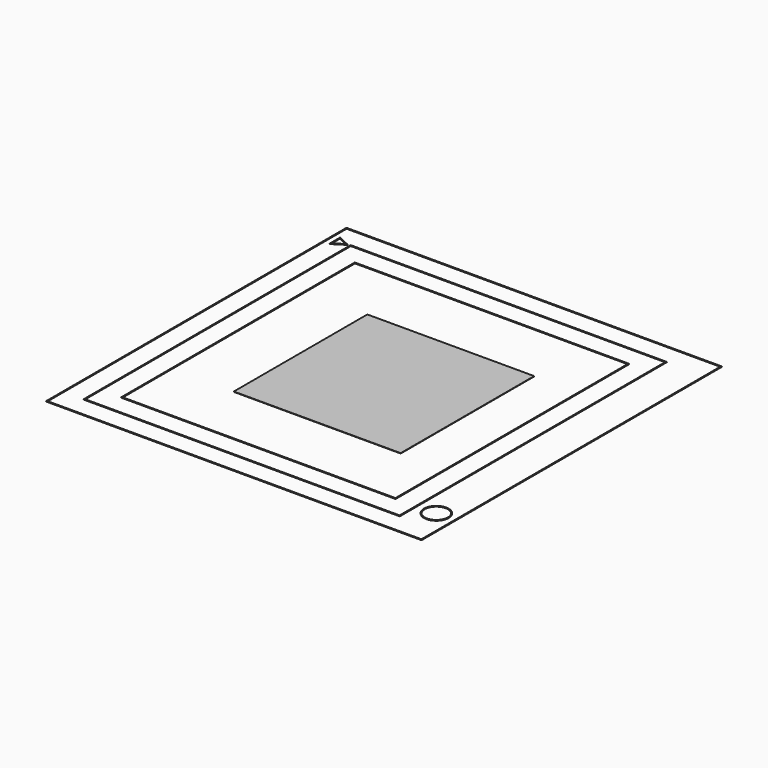
from build123d import *

# Parameters (mm, degrees)
F1_W     = 198
F1_H     = 198
F1_W_2   = 197.2
F1_H_2   = 197.2
F2_DEPTH = 0.2
F1_W_3   = 166.7133469
F1_H_3   = 176
F1_W_4   = 165.9133469
F1_H_4   = 175.2
F1_W_5   = 144.7133469
F1_H_5   = 154
F1_W_6   = 143.9133469
F1_H_6   = 153.2
F1_R     = 6.5
F1_R_2   = 6.1
F1_W_7   = 88
F1_H_7   = 88


with BuildPart() as f2:
    # F1 (on Top) → F2 (new body)
    with BuildSketch(Plane.XY):
        with Locations((7.5175617039, 26.8632308638)):
            Rectangle(F1_W, F1_H)
        with Locations((7.5175617039, 26.8632308638)):
            Rectangle(F1_W_2, F1_H_2, mode=Mode.SUBTRACT)
    extrude(amount=F2_DEPTH)


with BuildPart() as f2b:
    # F1 (on Top) → F2, piece 2 (new body)
    with BuildSketch(Plane.XY):
        with Locations((2.8742351539, 26.8632308638)):
            Rectangle(F1_W_3, F1_H_3)
        with Locations((2.8742351539, 26.8632308638)):
            Rectangle(F1_W_4, F1_H_4, mode=Mode.SUBTRACT)
    extrude(amount=F2_DEPTH)


with BuildPart() as f2c:
    # F1 (on Top) → F2, piece 3 (new body)
    with BuildSketch(Plane.XY):
        with Locations((2.8742351539, 26.8632308638)):
            Rectangle(F1_W_5, F1_H_5)
        with Locations((2.8742351539, 26.8632308638)):
            Rectangle(F1_W_6, F1_H_6, mode=Mode.SUBTRACT)
    extrude(amount=F2_DEPTH)


with BuildPart() as f2d:
    # F1 (on Top) → F2, piece 4 (new body)
    with BuildSketch(Plane.XY):
        with Locations((96.3742351539, -49.7367691362)):
            Circle(F1_R)
        with Locations((96.3742351539, -49.7367691362)):
            Circle(F1_R_2, mode=Mode.SUBTRACT)
    extrude(amount=F2_DEPTH)


with BuildPart() as f2e:
    # F1 (on Top) → F2, piece 5 (new body)
    with BuildSketch(Plane.XY):
        with Locations((7.5175617039, 26.8632308638)):
            Rectangle(F1_W_7, F1_H_7)
    extrude(amount=F2_DEPTH)


with BuildPart() as f2f:
    # F1 (on Top) → F2, piece 6 (new body)
    with BuildSketch(Plane.XY):
        Polygon((-81.7578829757, 114.4632308638), (-88.0824382961, 117.4632308638), (-88.0824382961, 110.4632308638), align=None)
        Polygon((-87.6824382961, 111.1894994593), (-87.6824382961, 116.8307753318), (-82.5855009628, 114.4130856722), align=None, mode=Mode.SUBTRACT)
    extrude(amount=F2_DEPTH)


solid = Compound([f2.part, f2b.part, f2c.part, f2d.part, f2e.part, f2f.part])
